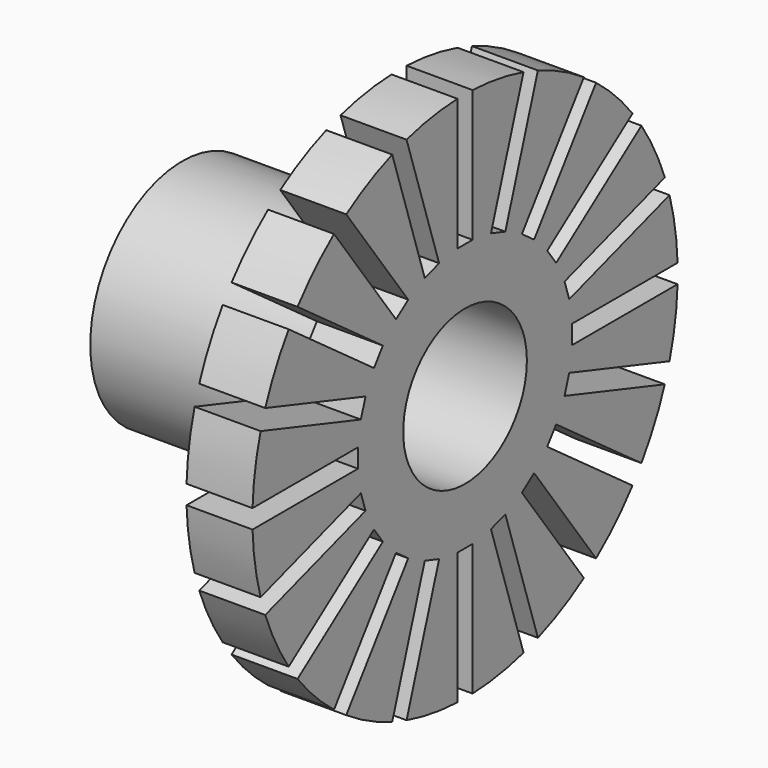
from build123d import *

# Parameters (mm, degrees)
POCKET_DEPTH       = 3.5
POLARPATTERN_COUNT = 20


with BuildPart() as part:
    # Sketch → Revolution (revolve)
    with BuildSketch(Plane.XY):
        Polygon((1.75, 4.1), (1.75, 14.1), (0, 14.1), (-1.75, 14.1), (-1.75, 6.1), (-13.25, 6.1), (-13.25, 4.1), align=None)
    revolve(axis=Axis((0, 0, 0), (1, 0, 0)))

    # Sketch001 (on Face4 of Revolution) → Pocket (cut)
    with BuildSketch(Plane(origin=(-1.75, 0, 0), x_dir=(0, -1, 0), z_dir=(-1, 0, 0))):
        Polygon((-0.5, 15.1), (0.5, 15.1), (0.5, 7.1), (0, 7.1), (-0.5, 7.1), align=None)
    pocket = extrude(amount=-POCKET_DEPTH, mode=Mode.SUBTRACT)

    # PolarPattern: Pocket ×20 about axis
    polarpattern_axis = Axis((-1.75, 0, 0), (-1, 0, 0))
    for i in range(1, POLARPATTERN_COUNT):
        add(pocket.rotate(polarpattern_axis, i * 360 / POLARPATTERN_COUNT), mode=Mode.SUBTRACT)


solid = part.part
